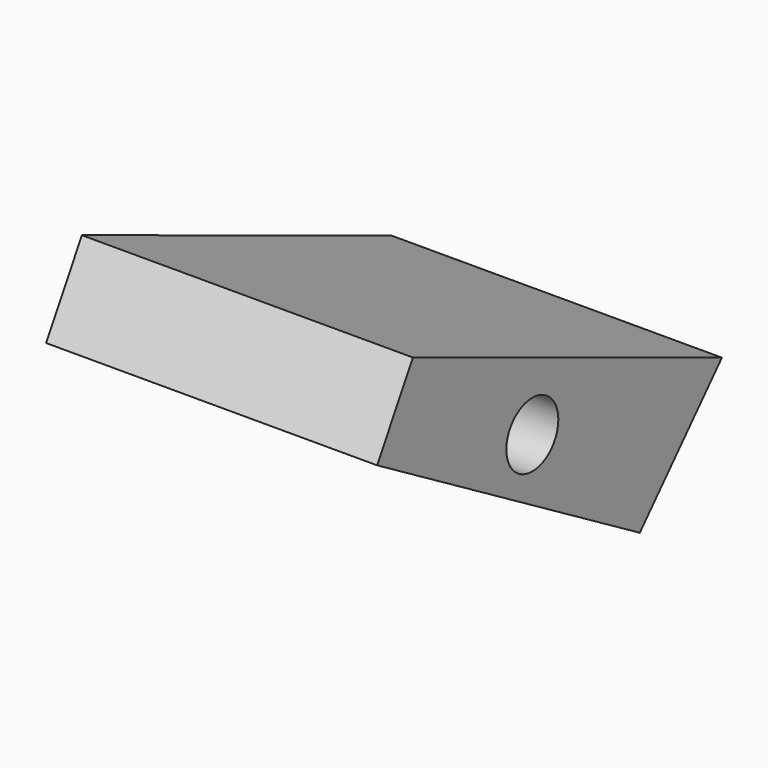
from build123d import *

# Parameters (mm, degrees)
F0_R     = 8.048061
F1_DEPTH = 82.042


with BuildPart() as f1:
    # F0 (on Right) → F1 (new body)
    with BuildSketch(Plane.YZ):
        Polygon((-95.728643, 66.821307), (-106.827624, 47.806818), (-25.435157, 0), (0, 27.8753), align=None)
        with Locations((-58.732074, 34.973033)):
            Circle(F0_R, mode=Mode.SUBTRACT)
    extrude(amount=-F1_DEPTH)


solid = f1.part
